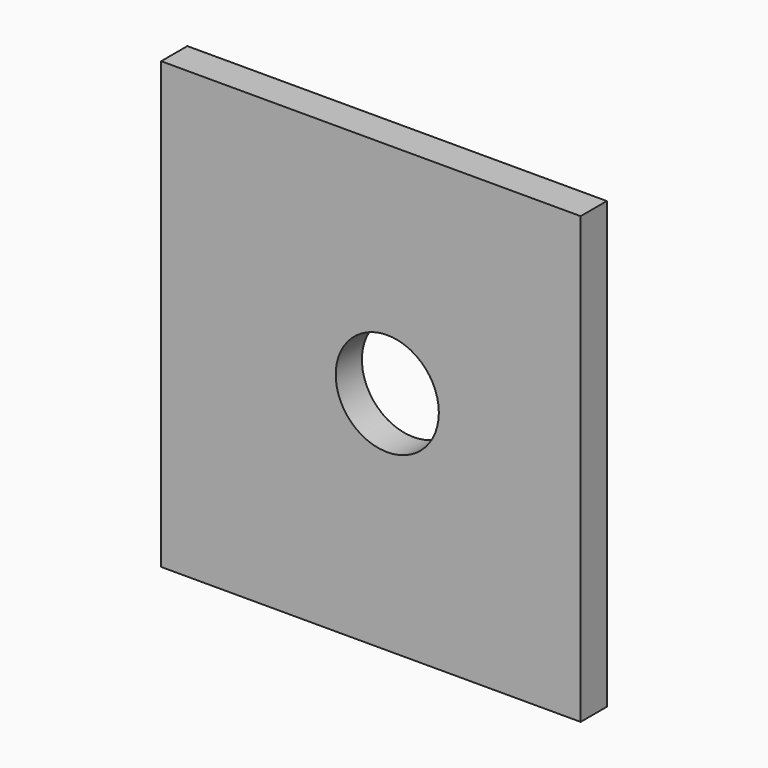
from build123d import *

# Parameters (mm, degrees)
F0_W     = 75
F0_H     = 75
F0_R     = 2.3876
F0_R_2   = 10
F0_W_2   = 6.35
F0_H_2   = 6.35
F1_DEPTH = 6.35


with BuildPart() as f1:
    # F0 (on Front) → F1 (new body)
    with BuildSketch(Plane.XZ):
        Rectangle(F0_W, F0_H)
        with Locations((0, -27.5)):
            Circle(F0_R, mode=Mode.SUBTRACT)
        Circle(F0_R_2, mode=Mode.SUBTRACT)
        with Locations((-40.675, 0)):
            Rectangle(F0_W_2, F0_H)
        with Locations((-40.675, -40.675)):
            Rectangle(F0_W_2, F0_H_2)
        with Locations((0, -40.675)):
            Rectangle(F0_W, F0_H_2)
        Polygon((-37.5, 37.5), (37.5, 37.5), (37.5, 42.5), (-43.85, 42.5), (-43.85, 37.5), align=None)
        with Locations((0, -27.5)):
            Circle(F0_R)
    extrude(amount=F1_DEPTH)


solid = f1.part
